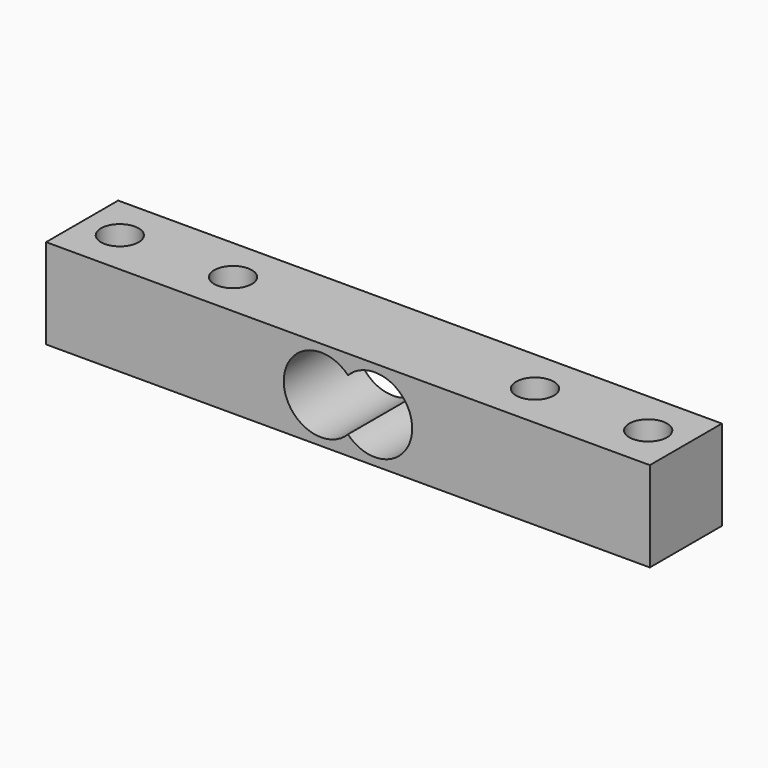
from build123d import *

# Parameters (mm, degrees)
F0_W     = 11.938
F0_H     = 11.938
F1_DEPTH = 40.005
F2_R     = 4.953
F3_DEPTH = 25.4
F4_R     = 4.953
F5_DEPTH = 11.939
F6_R     = 2.49936
F7_DEPTH = 11.939


with BuildPart() as f1:
    # F0 (on Right) → F1 (new body, symmetric)
    with BuildSketch(Plane.YZ):
        Rectangle(F0_W, F0_H)
    extrude(amount=F1_DEPTH, both=True)

    # F2 (on face) → F3 (cut)
    with BuildSketch(Plane.XZ.offset(5.969)):
        with Locations((3.556, 0)):
            Circle(F2_R)
    extrude(amount=-F3_DEPTH, mode=Mode.SUBTRACT)

    # F4 (on face) → F5 (cut, through all)
    with BuildSketch(Plane.XZ.offset(5.969)):
        with Locations((-3.556, 0)):
            Circle(F4_R)
    extrude(amount=-F5_DEPTH, mode=Mode.SUBTRACT)

    # F6 (on face) → F7 (cut, through all)
    with BuildSketch(Plane.XY.offset(5.969)):
        with Locations((-35.00628, 0)):
            Circle(F6_R)
        with Locations((-20.00504, 0)):
            Circle(F6_R)
        with Locations((20.00504, 0)):
            Circle(F6_R)
        with Locations((35.00628, 0)):
            Circle(F6_R)
    extrude(amount=-F7_DEPTH, mode=Mode.SUBTRACT)


solid = f1.part
